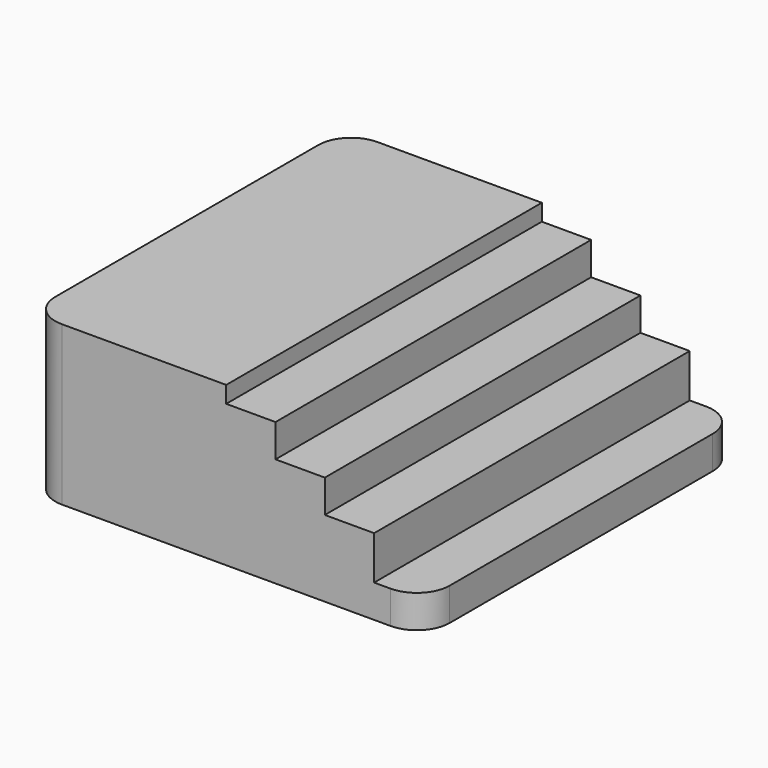
from build123d import *

# Parameters (mm, degrees)
F0_W     = 12
F0_H     = 12
F1_DEPTH = 4.83
F3_DEPTH = 25
F4_R     = 1


with BuildPart() as f1:
    # F0 (on Top) → F1 (new body)
    with BuildSketch(Plane.XY):
        Rectangle(F0_W, F0_H)
    extrude(amount=F1_DEPTH)

    # F2 (on face) → F3 (cut)
    with BuildSketch(Plane.XZ.offset(6)):
        Polygon((4.5, 2.323068), (4.5, 1), (6, 1), (6, 4.83), (0, 4.83), (0, 4.323068), (1.5, 4.323068), (1.5, 3.323068), (3, 3.323068), (3, 2.323068), align=None)
    extrude(amount=-F3_DEPTH, mode=Mode.SUBTRACT)

    # F4
    f4_edges = [f1.edges().sort_by_distance(p)[0] for p in [
        (-6, -6, 2.415),
        (-6, 6, 2.415),
        (6, -6, 0.5),
        (6, 6, 0.5),
    ]]
    fillet(f4_edges, radius=F4_R)


solid = f1.part
